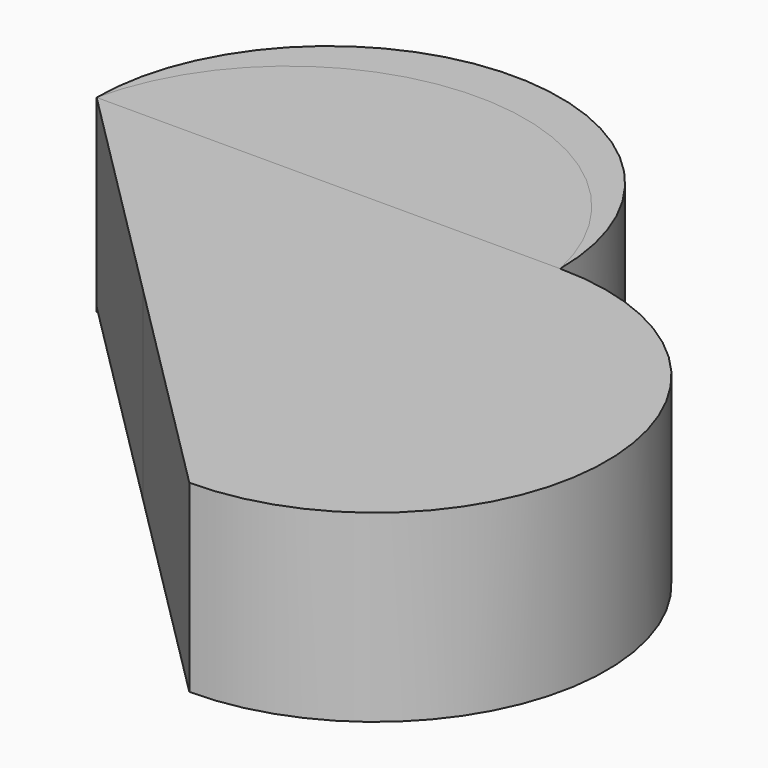
from build123d import *

# Parameters (mm, degrees)
F1_DEPTH = 25
F3_DEPTH = 25.6


with BuildPart() as f1:
    # F0 (on Top) → F1 (new body)
    with BuildSketch(Plane.XY):
        with BuildLine():
            Line((-31.455584, 0), (0, -31.455584))
            ThreePointArc((0, -31.455584), (31.455584, 0), (0, 31.455584))
            Line((0, 31.455584), (-31.455584, 0))
        make_face()
        with BuildLine():
            Line((-31.455584, 0), (0, 31.455584))
            ThreePointArc((0, 31.455584), (-31.455584, 62.911167), (-62.911167, 31.455584))
            Line((-62.911167, 31.455584), (-31.455584, 0))
        make_face()
    extrude(amount=F1_DEPTH)


with BuildPart() as f3:
    # F2 (on face) → F3 (new body)
    with BuildSketch(Plane.XY.offset(25)):
        with BuildLine():
            Line((-62.911167, 31.455584), (0, 31.455584))
            ThreePointArc((0, 31.455584), (-31.455584, 56.813805), (-62.911167, 31.455584))
        make_face()
    extrude(amount=-F3_DEPTH)


solid = Compound([f1.part, f3.part])
